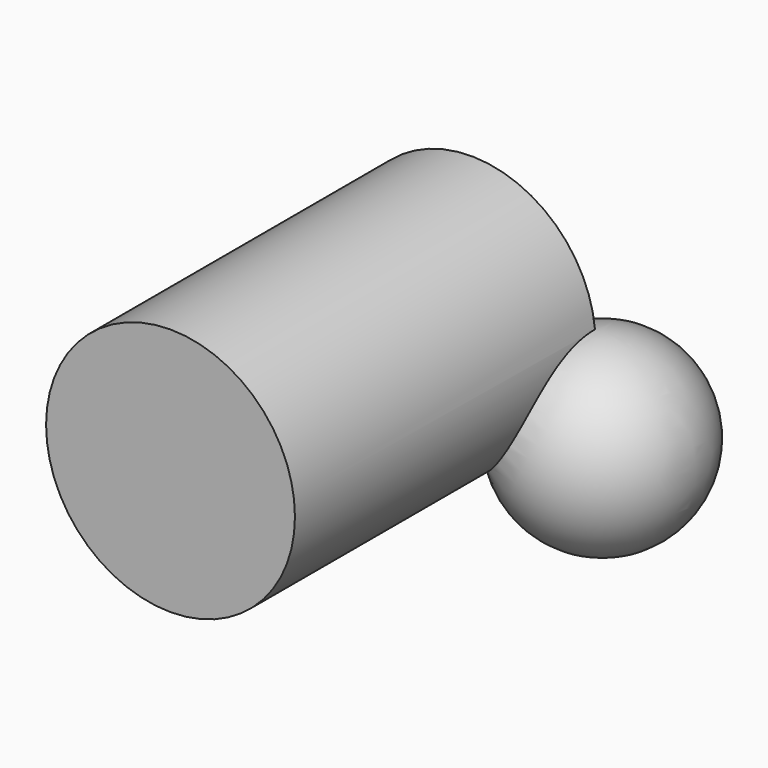
from build123d import *

# Parameters (mm, degrees)
F2_R     = 33.206938
F3_DEPTH = 100.283638


with BuildPart() as f1:
    # F0 (on Front) → F1 (revolve)
    with BuildSketch(Plane.XZ):
        with BuildLine():
            Line((0, 50), (0, 0))
            ThreePointArc((0, 0), (25, 25), (0, 50))
        make_face()
    revolve(axis=Axis((0, 0, 25), (0, 0, 1)))

    # F2 (on Front) → F3 (join)
    with BuildSketch(Plane.XZ):
        with Locations((-34.982271, 46.71992)):
            Circle(F2_R)
    extrude(amount=F3_DEPTH)


solid = f1.part
